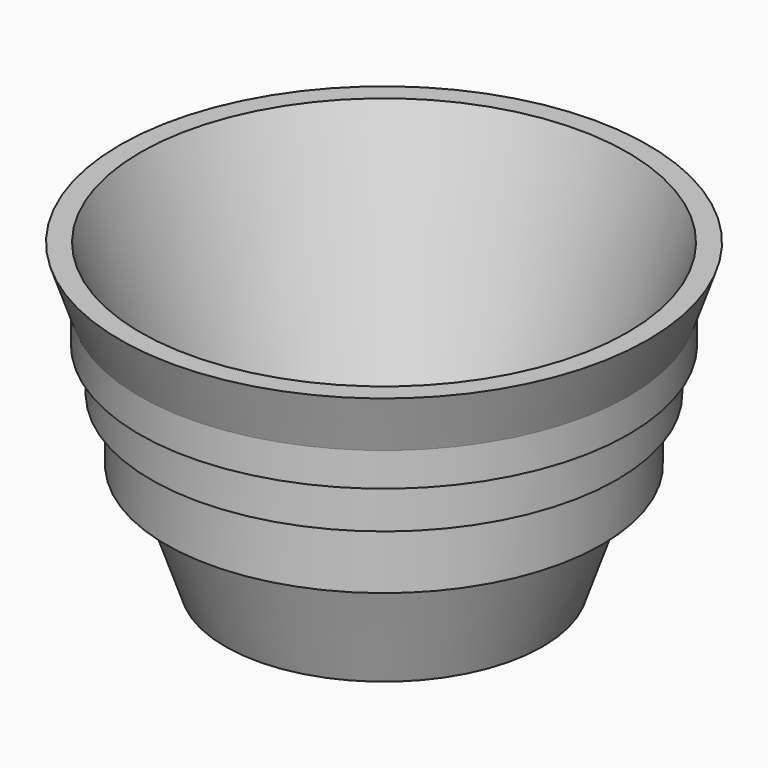
from build123d import *


with BuildPart() as f1:
    # F0 (on Front) → F1 (revolve)
    with BuildSketch(Plane.XZ):
        Polygon((0, 0), (25.4, 0), (31.424783, 17.415378), (34.864619, 27.358651), (37.281267, 34.344271), (39.138982, 39.714224), (42.237137, 48.669823), (38.985022, 48.669823), (23.211117, 3.0734), (0, 3.0734), align=None)
        Polygon((34.864619, 27.358651), (31.424783, 17.415378), (34.864619, 17.415378), align=None)
        Polygon((37.281267, 34.344271), (34.864619, 27.358651), (37.281267, 27.358651), align=None)
        Polygon((39.138982, 39.714224), (37.281267, 34.344271), (39.138982, 34.344271), align=None)
    revolve(axis=Axis((0, 0, 24.334911), (0, 0, 1)))


solid = f1.part
